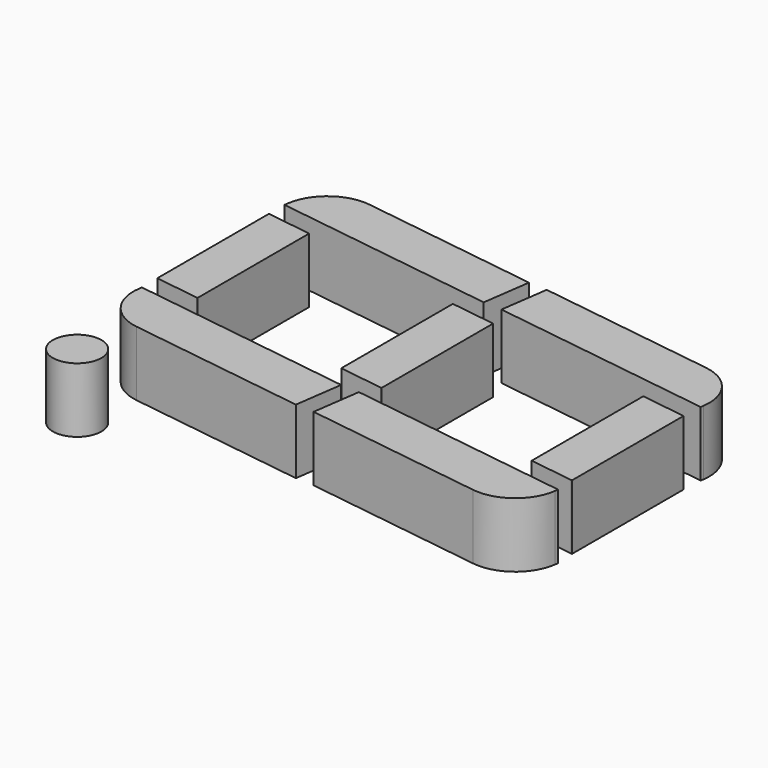
from build123d import *

# Parameters (mm, degrees)
BOX042_W               = 7
BOX042_H               = 1.5
BOX042_DEPTH           = 2
BOX042_PLACEMENT_ANGLE = -8
FILLET015_R            = 1.4
BOX041_W               = 7
BOX041_H               = 1.5
BOX041_DEPTH           = 2
BOX041_PLACEMENT_ANGLE = -8
FILLET012_R            = 1.4
BOX043_W               = 7
BOX043_H               = 1.5
BOX043_DEPTH           = 2
BOX043_PLACEMENT_ANGLE = -8
FILLET014_R            = 1.4
CYLINDER003_R          = 0.75
CYLINDER003_DEPTH      = 2
BOX053_W               = 7
BOX053_H               = 1.4
BOX053_DEPTH           = 2
BOX053_PLACEMENT_ANGLE = -8
BOX052_W               = 7
BOX052_H               = 1.4
BOX052_DEPTH           = 2
BOX052_PLACEMENT_ANGLE = -8
BOX051_W               = 1.4
BOX051_H               = 4.5
BOX051_DEPTH           = 2
BOX044_W               = 7
BOX044_H               = 1.5
BOX044_DEPTH           = 2
BOX044_PLACEMENT_ANGLE = -8
FILLET013_R            = 1.4
BOX050_W               = 7
BOX050_H               = 1.4
BOX050_DEPTH           = 2
BOX050_PLACEMENT_ANGLE = -8
BOX049_W               = 7
BOX049_H               = 1.4
BOX049_DEPTH           = 2
BOX049_PLACEMENT_ANGLE = -8
BOX048_W               = 1.4
BOX048_H               = 4.5
BOX048_DEPTH           = 2
BOX047_W               = 7
BOX047_H               = 1.4
BOX047_DEPTH           = 2
BOX047_PLACEMENT_ANGLE = -8
BOX046_W               = 7
BOX046_H               = 1.4
BOX046_DEPTH           = 2
BOX046_PLACEMENT_ANGLE = -8
BOX045_W               = 1.4
BOX045_H               = 4.5
BOX045_DEPTH           = 2


with BuildPart() as fillet015:
    # Box042 → Box042 (new body)
    with BuildSketch(Plane.XY):
        with Locations((3.5, 0.75)):
            Rectangle(BOX042_W, BOX042_H)
    extrude(amount=BOX042_DEPTH)


with BuildPart() as fillet015_1:
    # Box042 placement: moved
    add(fillet015.part.moved(Location((8.8, 7, 6.2))).rotate(Axis((8.8, 7, 6.2), (0, 0, 1)), BOX042_PLACEMENT_ANGLE))

    # Fillet015
    fillet015_edges = [fillet015_1.edges().sort_by_distance(p)[0] for p in [
        (15.731876, 6.025788, 7.2),
    ]]
    fillet(fillet015_edges, radius=FILLET015_R)


with BuildPart() as fillet015_2:
    # Fillet015 placement: moved
    add(fillet015_1.part.moved(Location((-0.5, 0, 0))))


with BuildPart() as fillet012:
    # Box041 → Box041 (new body)
    with BuildSketch(Plane.XY):
        with Locations((3.5, 0.75)):
            Rectangle(BOX041_W, BOX041_H)
    extrude(amount=BOX041_DEPTH)


with BuildPart() as fillet012_1:
    # Box041 placement: moved
    add(fillet012.part.moved(Location((-0.2, 8, 6.2))).rotate(Axis((-0.2, 8, 6.2), (0, 0, 1)), BOX041_PLACEMENT_ANGLE))

    # Fillet012
    fillet012_edges = [fillet012_1.edges().sort_by_distance(p)[0] for p in [
        (-0.2, 8, 7.2),
    ]]
    fillet(fillet012_edges, radius=FILLET012_R)


with BuildPart() as fillet012_2:
    # Fillet012 placement: moved
    add(fillet012_1.part.moved(Location((1, 0, 0))))


with BuildPart() as fillet014:
    # Box043 → Box043 (new body)
    with BuildSketch(Plane.XY):
        with Locations((3.5, 0.75)):
            Rectangle(BOX043_W, BOX043_H)
    extrude(amount=BOX043_DEPTH)


with BuildPart() as fillet014_1:
    # Box043 placement: moved
    add(fillet014.part.moved(Location((9, 14, 6.2))).rotate(Axis((9, 14, 6.2), (0, 0, 1)), BOX043_PLACEMENT_ANGLE))

    # Fillet014
    fillet014_edges = [fillet014_1.edges().sort_by_distance(p)[0] for p in [
        (16.140636, 14.51119, 7.2),
    ]]
    fillet(fillet014_edges, radius=FILLET014_R)


with BuildPart() as fillet014_2:
    # Fillet014 placement: moved
    add(fillet014_1.part.moved(Location((-0.5, 0, 0))))


with BuildPart() as cylinder003:
    # Cylinder003 → Cylinder003 (new body)
    with BuildSketch(Plane(origin=(1.8, 6, 6.2), x_dir=(1, 0, 0), z_dir=(0, 0, 1))):
        Circle(CYLINDER003_R)
    extrude(amount=CYLINDER003_DEPTH)


with BuildPart() as kub053:
    # Box053 → Box053 (new body)
    with BuildSketch(Plane.XY):
        with Locations((3.5, 0.7)):
            Rectangle(BOX053_W, BOX053_H)
    extrude(amount=BOX053_DEPTH)


with BuildPart() as kub053_1:
    # Box053 placement: moved
    add(kub053.part.moved(Location((-10, 9.2, 6.2))).rotate(Axis((-10, 9.2, 6.2), (0, 0, 1)), BOX053_PLACEMENT_ANGLE))


with BuildPart() as kub052:
    # Box052 → Box052 (new body)
    with BuildSketch(Plane.XY):
        with Locations((3.5, 0.7)):
            Rectangle(BOX052_W, BOX052_H)
    extrude(amount=BOX052_DEPTH)


with BuildPart() as kub052_1:
    # Box052 placement: moved
    add(kub052.part.moved(Location((-9, 14.78, 6.2))).rotate(Axis((-9, 14.78, 6.2), (0, 0, 1)), BOX052_PLACEMENT_ANGLE))


with BuildPart() as cut025:
    # Box051 → Box051 (new body)
    with BuildSketch(Plane(origin=(-7, 10, 6.2), x_dir=(1, 0, 0), z_dir=(0, 0, 1))):
        with Locations((0.7, 2.25)):
            Rectangle(BOX051_W, BOX051_H)
    extrude(amount=BOX051_DEPTH)

    # Cut024: cut Kub052
    add(kub052_1.part, mode=Mode.SUBTRACT)

    # Cut025: cut Kub053
    add(kub053_1.part, mode=Mode.SUBTRACT)


with BuildPart() as cut025_1:
    # Cut025 placement: moved
    add(cut025.part.moved(Location((21, -1.9, 0))))


with BuildPart() as fillet013:
    # Box044 → Box044 (new body)
    with BuildSketch(Plane.XY):
        with Locations((3.5, 0.75)):
            Rectangle(BOX044_W, BOX044_H)
    extrude(amount=BOX044_DEPTH)


with BuildPart() as fillet013_1:
    # Box044 placement: moved
    add(fillet013.part.moved(Location((0, 15, 6.2))).rotate(Axis((0, 15, 6.2), (0, 0, 1)), BOX044_PLACEMENT_ANGLE))

    # Fillet013
    fillet013_edges = [fillet013_1.edges().sort_by_distance(p)[0] for p in [
        (0.20876, 16.485402, 7.2),
    ]]
    fillet(fillet013_edges, radius=FILLET013_R)


with BuildPart() as fillet013_2:
    # Fillet013 placement: moved
    add(fillet013_1.part.moved(Location((1, 0, 0))))


with BuildPart() as kub050:
    # Box050 → Box050 (new body)
    with BuildSketch(Plane.XY):
        with Locations((3.5, 0.7)):
            Rectangle(BOX050_W, BOX050_H)
    extrude(amount=BOX050_DEPTH)


with BuildPart() as kub050_1:
    # Box050 placement: moved
    add(kub050.part.moved(Location((-10, 9.2, 6.2))).rotate(Axis((-10, 9.2, 6.2), (0, 0, 1)), BOX050_PLACEMENT_ANGLE))


with BuildPart() as kub049:
    # Box049 → Box049 (new body)
    with BuildSketch(Plane.XY):
        with Locations((3.5, 0.7)):
            Rectangle(BOX049_W, BOX049_H)
    extrude(amount=BOX049_DEPTH)


with BuildPart() as kub049_1:
    # Box049 placement: moved
    add(kub049.part.moved(Location((-9, 14.78, 6.2))).rotate(Axis((-9, 14.78, 6.2), (0, 0, 1)), BOX049_PLACEMENT_ANGLE))


with BuildPart() as cut023:
    # Box048 → Box048 (new body)
    with BuildSketch(Plane(origin=(-7, 10, 6.2), x_dir=(1, 0, 0), z_dir=(0, 0, 1))):
        with Locations((0.7, 2.25)):
            Rectangle(BOX048_W, BOX048_H)
    extrude(amount=BOX048_DEPTH)

    # Cut022: cut Kub049
    add(kub049_1.part, mode=Mode.SUBTRACT)

    # Cut023: cut Kub050
    add(kub050_1.part, mode=Mode.SUBTRACT)


with BuildPart() as cut023_1:
    # Cut023 placement: moved
    add(cut023.part.moved(Location((14.4, -1, 0))))


with BuildPart() as kub047:
    # Box047 → Box047 (new body)
    with BuildSketch(Plane.XY):
        with Locations((3.5, 0.7)):
            Rectangle(BOX047_W, BOX047_H)
    extrude(amount=BOX047_DEPTH)


with BuildPart() as kub047_1:
    # Box047 placement: moved
    add(kub047.part.moved(Location((-10, 9.2, 6.2))).rotate(Axis((-10, 9.2, 6.2), (0, 0, 1)), BOX047_PLACEMENT_ANGLE))


with BuildPart() as kub046:
    # Box046 → Box046 (new body)
    with BuildSketch(Plane.XY):
        with Locations((3.5, 0.7)):
            Rectangle(BOX046_W, BOX046_H)
    extrude(amount=BOX046_DEPTH)


with BuildPart() as kub046_1:
    # Box046 placement: moved
    add(kub046.part.moved(Location((-9, 14.78, 6.2))).rotate(Axis((-9, 14.78, 6.2), (0, 0, 1)), BOX046_PLACEMENT_ANGLE))


with BuildPart() as fusion003:
    # Box045 → Box045 (new body)
    with BuildSketch(Plane(origin=(-7, 10, 6.2), x_dir=(1, 0, 0), z_dir=(0, 0, 1))):
        with Locations((0.7, 2.25)):
            Rectangle(BOX045_W, BOX045_H)
    extrude(amount=BOX045_DEPTH)

    # Cut020: cut Kub046
    add(kub046_1.part, mode=Mode.SUBTRACT)

    # Cut021: cut Kub047
    add(kub047_1.part, mode=Mode.SUBTRACT)


with BuildPart() as fusion003_1:
    # Cut021 placement: moved
    add(fusion003.part.moved(Location((8, -0.1, 0))))

    # Fusion003: union Fillet015, Fillet012, Fillet014, Cylinder003, Cut025, Fillet013, Cut023
    add(fillet015_2.part)
    add(fillet012_2.part)
    add(fillet014_2.part)
    add(cylinder003.part)
    add(cut025_1.part)
    add(fillet013_2.part)
    add(cut023_1.part)


with BuildPart() as fusion003_2:
    # Fusion003 placement: moved
    add(fusion003_1.part.moved(Location((0, -36, 0))))


solid = fusion003_2.part
